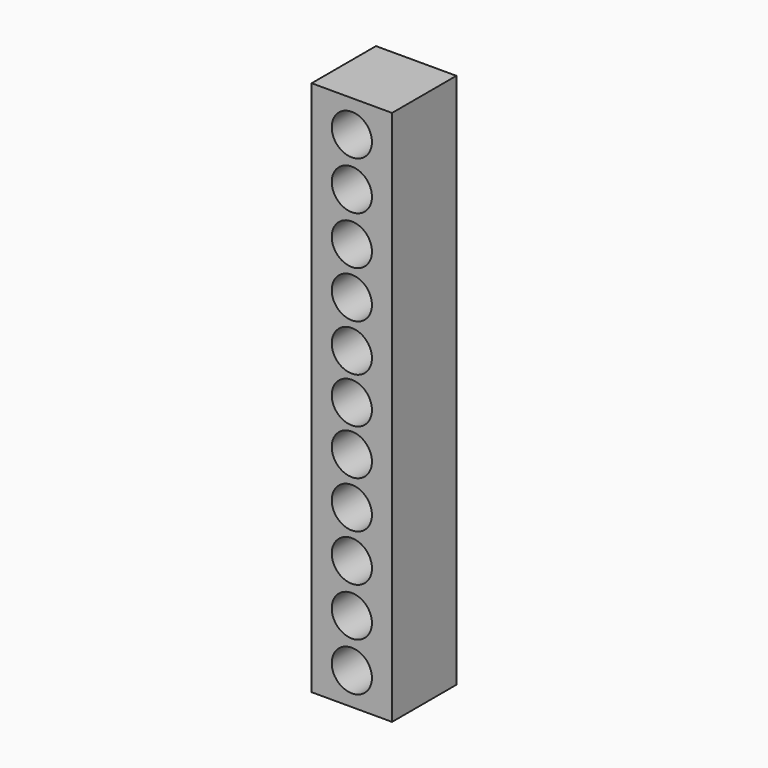
from build123d import *

# Parameters (mm, degrees)
F0_W     = 76.2
F0_H     = 508
F0_R     = 19.05
F1_DEPTH = 76.2


with BuildPart() as f1:
    # F0 (on Front) → F1 (new body)
    with BuildSketch(Plane.XZ):
        with Locations((-111.027259, 146.427681)):
            Rectangle(F0_W, F0_H)
        with Locations((-111.027259, -77.092319)):
            Circle(F0_R, mode=Mode.SUBTRACT)
        with Locations((-111.027259, -31.372319)):
            Circle(F0_R, mode=Mode.SUBTRACT)
        with Locations((-111.027259, 14.347681)):
            Circle(F0_R, mode=Mode.SUBTRACT)
        with Locations((-111.027259, 58.797681)):
            Circle(F0_R, mode=Mode.SUBTRACT)
        with Locations((-111.027259, 103.247681)):
            Circle(F0_R, mode=Mode.SUBTRACT)
        with Locations((-111.027259, 146.427681)):
            Circle(F0_R, mode=Mode.SUBTRACT)
        with Locations((-111.027259, 189.607681)):
            Circle(F0_R, mode=Mode.SUBTRACT)
        with Locations((-111.027259, 234.057681)):
            Circle(F0_R, mode=Mode.SUBTRACT)
        with Locations((-111.027259, 278.507681)):
            Circle(F0_R, mode=Mode.SUBTRACT)
        with Locations((-111.027259, 324.227681)):
            Circle(F0_R, mode=Mode.SUBTRACT)
        with Locations((-111.027259, 369.947681)):
            Circle(F0_R, mode=Mode.SUBTRACT)
    extrude(amount=F1_DEPTH)


solid = f1.part
